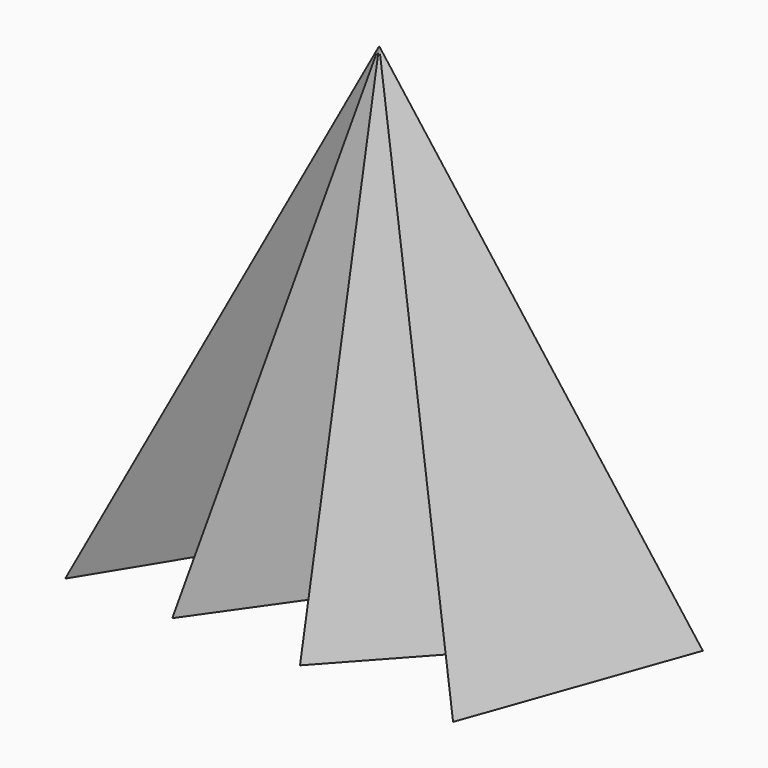
from build123d import *


with BuildPart() as f3:
    # F0 (on Top) → F3 section 0
    with BuildSketch(Plane.XY, mode=Mode.PRIVATE) as f3_s0:
        Polygon((58.2950860262, 54.6516403556), (-59.4609826803, 54.6516403556), (-59.4657808542, 0), (-43.416608125, 26.23029612), (-32.3482118547, 0), (-12.4250994995, 28.4439753741), (0, 0), (26.0375738144, 28.7206843495), (38.7662313879, 0), align=None)
    loft([f3_s0.sketch, Vertex(-1.0539550567, 26.3785235584, 127)])


solid = f3.part
